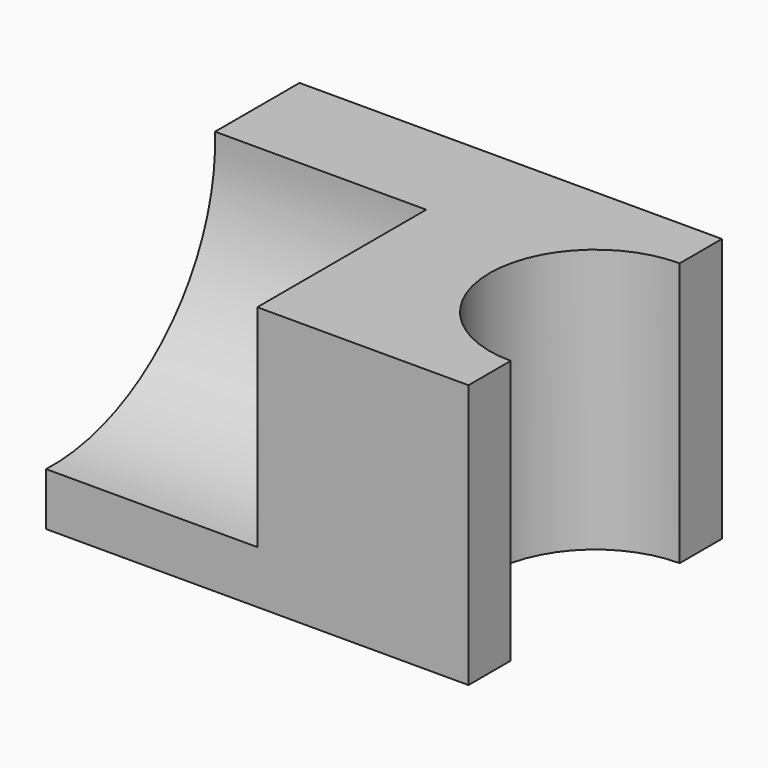
from build123d import *

# Parameters (mm, degrees)
F0_W     = 101.6
F0_H     = 63.5
F1_DEPTH = 76.2
F3_DEPTH = 63.5
F5_DEPTH = 50.8
F7_DEPTH = 50.8


with BuildPart() as f1:
    # F0 (on Front) → F1 (new body)
    with BuildSketch(Plane.XZ):
        with Locations((3.4718271345, -17.4338711586)):
            Rectangle(F0_W, F0_H)
    extrude(amount=F1_DEPTH)

    # F2 (on face) → F3 (cut)
    with BuildSketch(Plane.XY.offset(14.3161288414)):
        with BuildLine():
            Line((54.2718271345, -63.5), (54.2718271345, -12.7))
            ThreePointArc((54.2718271345, -12.7), (28.8718271345, -38.1), (54.2718271345, -63.5))
        make_face()
    extrude(amount=-F3_DEPTH, mode=Mode.SUBTRACT)

    # F4 (on face) → F5 (cut)
    with BuildSketch(Plane(origin=(-47.3281728655, 0, 0), x_dir=(0, -1, 0), z_dir=(-1, 0, 0))):
        with BuildLine():
            ThreePointArc((76.2, -39.4728052417), (114.234520043, -23.7183912016), (129.9889340831, 14.3161288414))
            ThreePointArc((129.9889340831, 14.3161288414), (76.2, 68.1050629246), (22.4110659169, 14.3161288414))
            Line((22.4110659169, 14.3161288414), (76.2, 14.3161288414))
            Line((76.2, 14.3161288414), (76.2, -39.4728052417))
        make_face()
    extrude(amount=-F5_DEPTH, mode=Mode.SUBTRACT)

    # F6 (on face) → F7 (cut)
    with BuildSketch(Plane(origin=(-47.3281728655, 0, 0), x_dir=(0, -1, 0), z_dir=(-1, 0, 0))):
        with BuildLine():
            Line((76.2, 14.3161288414), (25.4, 14.3161288414))
            ThreePointArc((25.4, 14.3161288414), (39.6977680254, -22.1861031331), (76.2, -36.4838711586))
            Line((76.2, -36.4838711586), (76.2, 14.3161288414))
        make_face()
    extrude(amount=-F7_DEPTH, mode=Mode.SUBTRACT)


solid = f1.part
